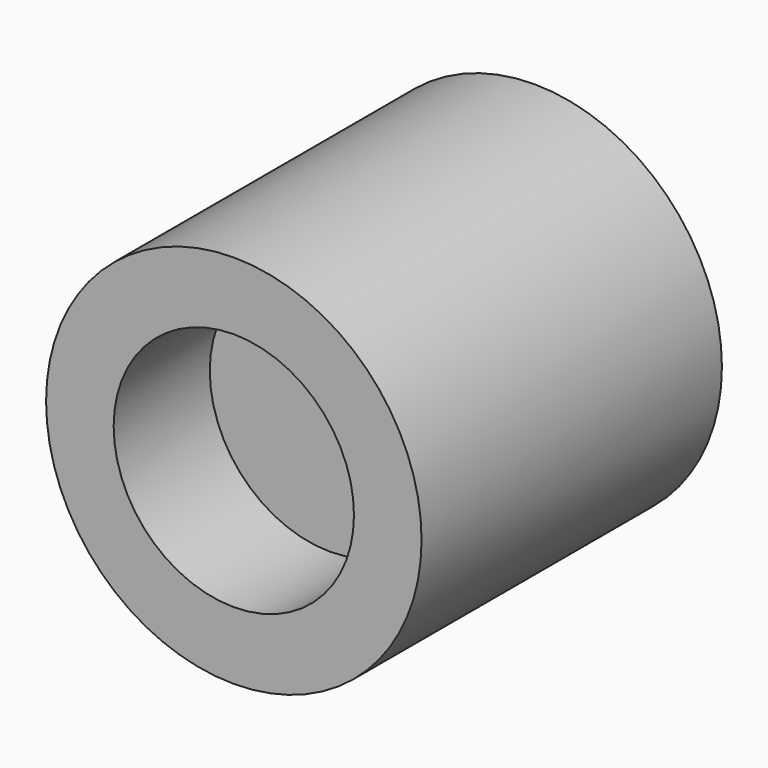
from build123d import *

# Parameters (mm, degrees)
F0_R     = 12.5
F1_DEPTH = 25
F2_R     = 2.5
F3_DEPTH = 8
F4_R     = 8
F5_DEPTH = 8


with BuildPart() as f1:
    # F0 (on Front) → F1 (new body)
    with BuildSketch(Plane.XZ):
        Circle(F0_R)
    extrude(amount=F1_DEPTH)

    # F2 (on face) → F3 (cut)
    with BuildSketch(Plane(origin=(0, 0, 0), x_dir=(-1, 0, 0), z_dir=(0, 1, 0))):
        with Locations((0, 0.083146)):
            Circle(F2_R)
    extrude(amount=-F3_DEPTH, mode=Mode.SUBTRACT)

    # F4 (on face) → F5 (cut)
    with BuildSketch(Plane.XZ.offset(25)):
        Circle(F4_R)
    extrude(amount=-F5_DEPTH, mode=Mode.SUBTRACT)


solid = f1.part
